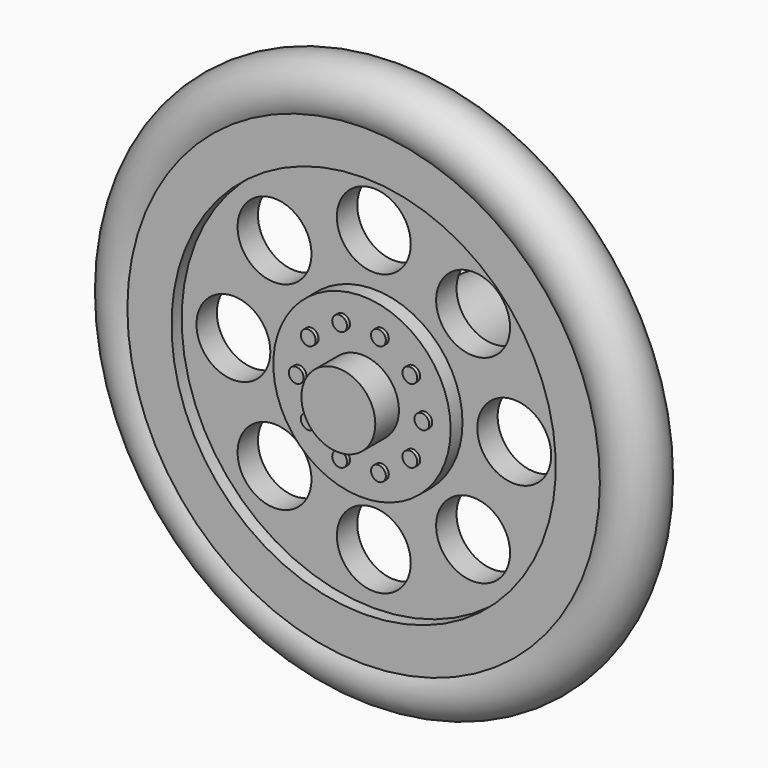
from build123d import *

# Parameters (mm, degrees)
F2_R     = 2.5
F3_DEPTH = 25.4
F4_DEPTH = 3
F2_R_2   = 6
F2_R_3   = 0.5
F5_DEPTH = 1
F6_DEPTH = 1.25
F7_R     = 3
F7_R_2   = 1.75
F8_DEPTH = 8


with BuildPart() as f1:
    # F0 (on Right) → F1 (revolve)
    with BuildSketch(Plane.YZ):
        with BuildLine():
            Line((1.72323, 13), (1.72323, 15.984875))
            ThreePointArc((1.72323, 15.984875), (0, 19), (-1.72323, 15.984875))
            Line((-1.72323, 15.984875), (-1.72323, 13))
            Line((-1.72323, 13), (-0.861619, 13))
            Line((-0.861619, 13), (-0.861619, 0))
            Line((-0.861619, 0), (0.861619, 0))
            Line((0.861619, 0), (0.861619, 13))
            Line((0.861619, 13), (1.72323, 13))
        make_face()
    revolve(axis=Axis((0, 0, 0), (0, 1, 0)))

    # F2 (on face) → F3 (cut)
    with BuildSketch(Plane.XZ.offset(0.861619)):
        with Locations((0, 9.500006)):
            Circle(F2_R)
        with Locations((6.717518, 6.717518)):
            Circle(F2_R)
        with Locations((9.500006, 0)):
            Circle(F2_R)
        with Locations((6.717518, -6.717518)):
            Circle(F2_R)
        with Locations((0, -9.500006)):
            Circle(F2_R)
        with Locations((-6.717518, -6.717518)):
            Circle(F2_R)
        with Locations((-9.500006, 0)):
            Circle(F2_R)
        with Locations((-6.717518, 6.717518)):
            Circle(F2_R)
    extrude(amount=-F3_DEPTH, mode=Mode.SUBTRACT)

    # F2 (on face) → F4 (join)
    with BuildSketch(Plane.XZ.offset(0.861619)):
        Circle(F2_R)
    extrude(amount=F4_DEPTH)

    # F2 (on face) → F5 (join)
    with BuildSketch(Plane.XZ.offset(0.861619)):
        Circle(F2_R_2)
        with Locations((-1.313321, -4.041987)):
            Circle(F2_R_3, mode=Mode.SUBTRACT)
        with Locations((-3.438319, -2.498085)):
            Circle(F2_R_3, mode=Mode.SUBTRACT)
        with Locations((1.313321, -4.041987)):
            Circle(F2_R_3, mode=Mode.SUBTRACT)
        with Locations((3.438319, -2.498085)):
            Circle(F2_R_3, mode=Mode.SUBTRACT)
        with Locations((-4.249997, 0)):
            Circle(F2_R_3, mode=Mode.SUBTRACT)
        with Locations((-3.438319, 2.498085)):
            Circle(F2_R_3, mode=Mode.SUBTRACT)
        with Locations((-1.313321, 4.041987)):
            Circle(F2_R_3, mode=Mode.SUBTRACT)
        Circle(F2_R, mode=Mode.SUBTRACT)
        with Locations((4.249997, 0)):
            Circle(F2_R_3, mode=Mode.SUBTRACT)
        with Locations((3.438319, 2.498085)):
            Circle(F2_R_3, mode=Mode.SUBTRACT)
        with Locations((1.313321, 4.041987)):
            Circle(F2_R_3, mode=Mode.SUBTRACT)
    extrude(amount=F5_DEPTH)

    # F2 (on face) → F6 (join)
    with BuildSketch(Plane.XZ.offset(0.861619)):
        with Locations((-1.313321, 4.041987)):
            Circle(F2_R_3)
        with Locations((1.313321, 4.041987)):
            Circle(F2_R_3)
        with Locations((3.438319, 2.498085)):
            Circle(F2_R_3)
        with Locations((4.249997, 0)):
            Circle(F2_R_3)
        with Locations((3.438319, -2.498085)):
            Circle(F2_R_3)
        with Locations((1.313321, -4.041987)):
            Circle(F2_R_3)
        with Locations((-1.313321, -4.041987)):
            Circle(F2_R_3)
        with Locations((-3.438319, -2.498085)):
            Circle(F2_R_3)
        with Locations((-4.249997, 0)):
            Circle(F2_R_3)
        with Locations((-3.438319, 2.498085)):
            Circle(F2_R_3)
    extrude(amount=F6_DEPTH)

    # F7 (on face) → F8 (join)
    with BuildSketch(Plane(origin=(0, 0.861619, 0), x_dir=(-1, 0, 0), z_dir=(0, 1, 0))):
        Circle(F7_R)
        Circle(F7_R_2, mode=Mode.SUBTRACT)
    extrude(amount=F8_DEPTH)


solid = f1.part
